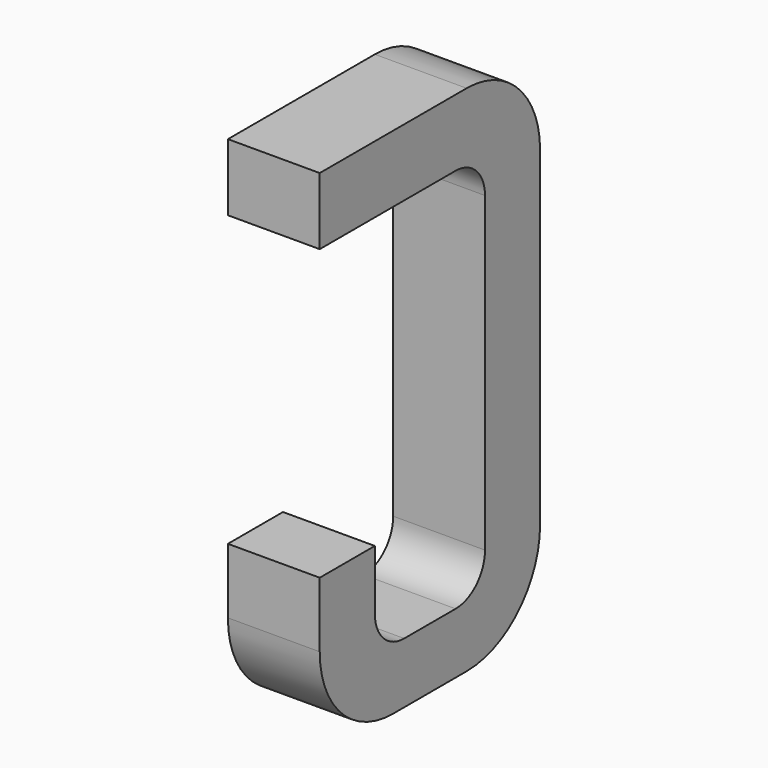
from build123d import *

# Parameters (mm, degrees)
BOX146_W     = 0.5
BOX146_H     = 1.5
BOX146_DEPTH = 2.795
FILLET415_R  = 0.5
FILLET423_R  = 0.5
FILLET412_R  = 0.5
BOX157_W     = 0.75
BOX157_H     = 2.1
BOX157_DEPTH = 1
FILLET395_R  = 0.2
FILLET431_R  = 0.2
FILLET424_R  = 0.2
FILLET389_R  = 0.2
BOX160_W     = 1
BOX160_H     = 1.575
BOX160_DEPTH = 3


with BuildPart() as part:
    # Box146 → Box146 (join)
    with BuildSketch(Plane(origin=(-0.25, 11.125, 0), x_dir=(1, 0, 0), z_dir=(0, 0, 1))):
        with Locations((0.25, 0.75)):
            Rectangle(BOX146_W, BOX146_H)
    extrude(amount=BOX146_DEPTH)

    # Fillet415
    fillet415_edges = [part.edges().sort_by_distance(p)[0] for p in [
        (0, 12.625, 0),
    ]]
    fillet(fillet415_edges, radius=FILLET415_R)

    # Fillet423
    fillet423_edges = [part.edges().sort_by_distance(p)[0] for p in [
        (0, 12.625, 2.795),
    ]]
    fillet(fillet423_edges, radius=FILLET423_R)

    # Fillet412
    fillet412_edges = [part.edges().sort_by_distance(p)[0] for p in [
        (0, 11.125, 0),
    ]]
    fillet(fillet412_edges, radius=FILLET412_R)

    # Box157 → Box157 (cut)
    with BuildSketch(Plane(origin=(-0.5, 11.5, 0.33), x_dir=(0, 1, 0), z_dir=(1, 0, 0))):
        with Locations((0.375, 1.05)):
            Rectangle(BOX157_W, BOX157_H)
    extrude(amount=BOX157_DEPTH, mode=Mode.SUBTRACT)

    # Fillet395
    fillet395_edges = [part.edges().sort_by_distance(p)[0] for p in [
        (0, 11.5, 0.33),
    ]]
    fillet(fillet395_edges, radius=FILLET395_R)

    # Fillet431
    fillet431_edges = [part.edges().sort_by_distance(p)[0] for p in [
        (0, 12.25, 0.33),
    ]]
    fillet(fillet431_edges, radius=FILLET431_R)

    # Fillet424
    fillet424_edges = [part.edges().sort_by_distance(p)[0] for p in [
        (0, 11.5, 2.43),
    ]]
    fillet(fillet424_edges, radius=FILLET424_R)

    # Fillet389
    fillet389_edges = [part.edges().sort_by_distance(p)[0] for p in [
        (0, 12.25, 2.43),
    ]]
    fillet(fillet389_edges, radius=FILLET389_R)

    # Box160 → Box160 (cut)
    with BuildSketch(Plane(origin=(-1, 11, 0.855), x_dir=(0, 1, 0), z_dir=(1, 0, 0))):
        with Locations((0.5, 0.7875)):
            Rectangle(BOX160_W, BOX160_H)
    extrude(amount=BOX160_DEPTH, mode=Mode.SUBTRACT)


with BuildPart() as part_1:
    # Body059 placement: moved
    add(part.part.moved(Location((1.27, 0, 0))))


solid = part_1.part
